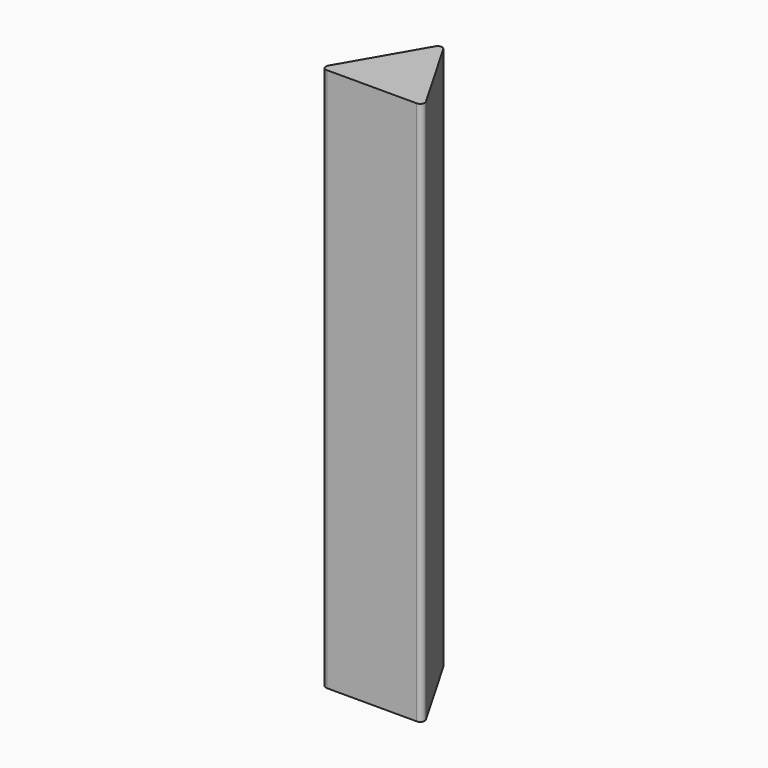
from build123d import *

# Parameters (mm, degrees)
F1_DEPTH = 60.6


with BuildPart() as f1:
    # F0 (on Top) → F1 (new body)
    with BuildSketch(Plane.XY):
        with BuildLine():
            Line((5.433013, -2.636751), (0.433013, 6.023503))
            ThreePointArc((0.433013, 6.023503), (0, 6.273503), (-0.433013, 6.023503))
            Line((-0.433013, 6.023503), (-5.433013, -2.636751))
            ThreePointArc((-5.433013, -2.636751), (-5.433013, -3.136751), (-5, -3.386751))
            Line((-5, -3.386751), (5, -3.386751))
            ThreePointArc((5, -3.386751), (5.433013, -3.136751), (5.433013, -2.636751))
        make_face()
    extrude(amount=-F1_DEPTH)


solid = f1.part
